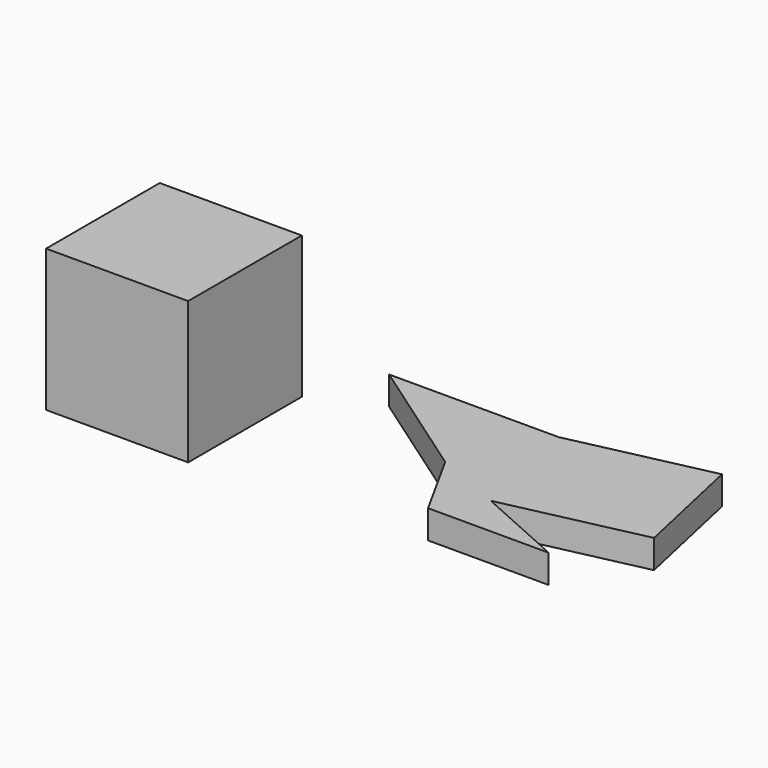
from build123d import *

# Parameters (mm, degrees)
F0_W     = 127
F0_H     = 127
F1_DEPTH = 127
F3_DEPTH = 25.4
F4_DEPTH = 127


with BuildPart() as f1:
    # F0 (on Front) → F1 (new body)
    with BuildSketch(Plane.XZ):
        with Locations((-63.5, 63.5)):
            Rectangle(F0_W, F0_H)
    extrude(amount=F1_DEPTH)


with BuildPart() as f3:
    # F2 (on Top) → F3 (new body)
    with BuildSketch(Plane.XY):
        Polygon((208.6365669966, 26.3727381825), (57.0057630539, 26.3727381825), (170.169994235, -52.423171699), (204.4744044542, -114.4747436047), (312.3362958431, -114.4747436047), (231.7429929972, -78.3934667706), align=None)
    extrude(amount=F3_DEPTH)

    # F4 (add): a face of the model
    f4_faces = [f3.faces().sort_by_distance(p)[0] for p in [
        (220.1897799969, -26.0103642941, 12.7),
    ]]
    extrude(f4_faces, amount=F4_DEPTH)


solid = Compound([f1.part, f3.part])
